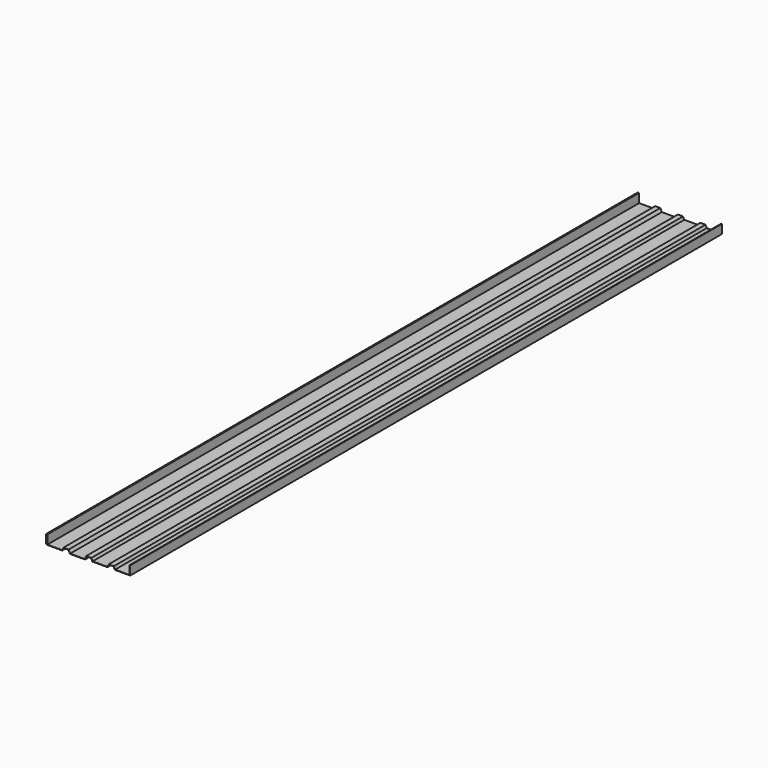
from build123d import *

# Parameters (mm, degrees)
F1_DEPTH = 1828.8


with BuildPart() as f1:
    # F0 (on Front) → F1 (new body, symmetric)
    with BuildSketch(Plane.XZ):
        Polygon((14.016321, 6.35), (-11.383679, 6.35), (-17.733679, -8.982642), (-90.758679, -8.982642), (-98.425, 6.35), (-123.825, 6.35), (-130.175, -6.35), (-203.2, -6.35), (-203.2, 38.1), (-209.55, 38.1), (-209.55, -6.35), (-207.9625, -6.35), (-207.9625, 36.5125), (-204.7875, 36.5125), (-204.7875, -7.9375), (-129.193871, -7.9375), (-122.843871, 4.7625), (-99.406129, 4.7625), (-91.739808, -10.570142), (-16.672882, -10.570142), (-10.322882, 4.7625), (13.035192, 4.7625), (19.385192, -7.9375), (94.37245, -7.9375), (100.72245, 4.7625), (124.160192, 4.7625), (130.510192, -7.9375), (204.516321, -7.9375), (206.375, -7.9375), (206.375, 36.5125), (203.2, 36.5125), (203.2, -6.35), (131.491321, -6.35), (125.141321, 6.35), (99.741321, 6.35), (93.391321, -6.35), (20.366321, -6.35), align=None)
    extrude(amount=F1_DEPTH, both=True)


solid = f1.part
